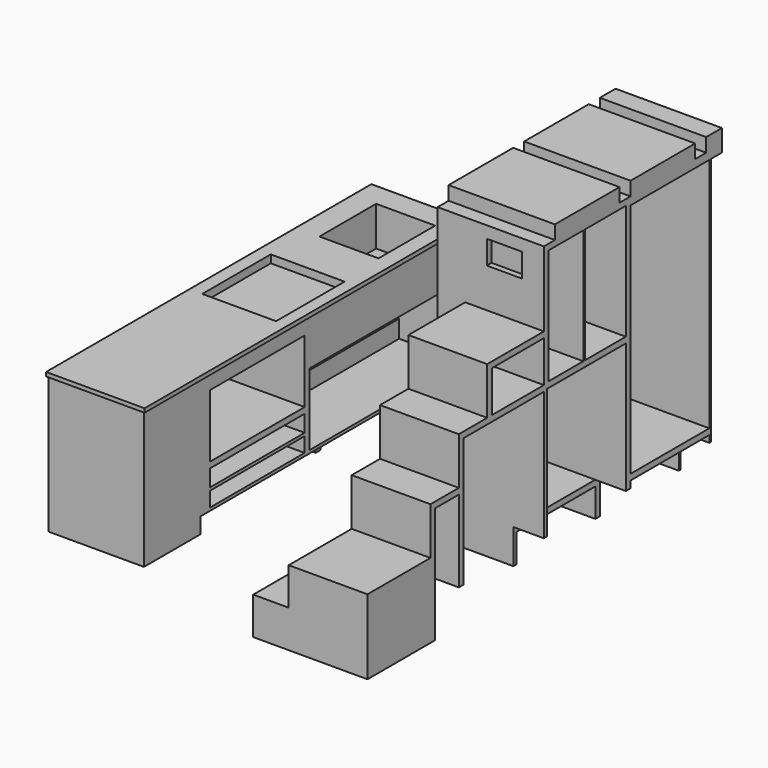
from build123d import *

# Parameters (mm, degrees)
F0_W      = 635
F0_H      = 2146.3
F1_DEPTH  = 914.4
F2_W      = 196.85
F2_H      = 222.25
F3_DEPTH  = 2260.6
F4_W      = 19.05
F4_H      = 2146.3
F5_DEPTH  = 889
F7_W      = 476.25
F7_H      = 552.45
F8_DEPTH  = 50.8
F9_W      = 762
F9_H      = 406.4
F10_DEPTH = 609.6
F11_W     = 381
F11_H     = 457.2
F12_DEPTH = 254
F13_W     = 2146.3
F13_H     = 101.6
F14_DEPTH = 101.6
F15_W     = 762
F15_H     = 222.25
F15_W_2   = 1231.9
F15_H_2   = 463.55
F16_DEPTH = 406.4
F17_W     = 762
F17_H     = 107.95
F17_W_2   = 1231.9
F17_H_2   = 349.25
F18_DEPTH = 203.2
F19_W     = 762
F19_H     = 19.05
F20_DEPTH = 406.4
F21_W     = 1054.1
F21_H     = 73.185064
F22_DEPTH = 304.8
F23_W     = 685.8
F23_H     = 2146.3
F24_DEPTH = 1879.6
F26_DEPTH = 457.2
F27_W     = 635
F27_H     = 25.4
F28_DEPTH = 19.05
F29_W     = 635
F29_H     = 1524
F30_DEPTH = 685.801
F31_W     = 196.85
F31_H     = 222.25
F32_DEPTH = 2622.551
F33_W     = 88.9
F33_H     = 1828.8
F34_DEPTH = 685.801
F36_DEPTH = 685.801
F37_W     = 685.8
F37_H     = 1092.2
F38_DEPTH = 711.2
F39_W     = 508
F39_H     = 304.8
F40_DEPTH = 685.801
F41_W     = 635
F41_H     = 838.2
F42_DEPTH = 685.801
F44_DEPTH = 177.8
F45_W     = 508
F45_H     = 241.3
F46_DEPTH = 228.6
F47_W     = 279.4
F47_H     = 742.95
F47_W_2   = 330.2
F48_DEPTH = 685.801
F49_W     = 228.6
F49_H     = 152.4
F50_DEPTH = 38.1
F51_W     = 190.5
F51_H     = 749.3
F51_W_2   = 647.7
F51_H_2   = 1054.1
F51_W_3   = 419.1
F51_H_3   = 266.7
F52_DEPTH = 508.001
F53_R     = 25.4
F54_DEPTH = 647.7
F55_W     = 635
F55_H     = 266.7
F55_H_2   = 184.15
F56_DEPTH = 685.801
F57_W     = 520.7
F57_H     = 88.9
F57_W_2   = 127
F58_DEPTH = 685.8


with BuildPart() as f1:
    # F0 (on Top) → F1 (new body)
    with BuildSketch(Plane.XY):
        with Locations((317.5, -1073.15)):
            Rectangle(F0_W, F0_H)
    extrude(amount=F1_DEPTH)

    # F2 (on face) → F3 (cut)
    with BuildSketch(Plane.XZ.offset(2146.3)):
        with Locations((98.425, 111.125)):
            Rectangle(F2_W, F2_H)
    extrude(amount=-F3_DEPTH, mode=Mode.SUBTRACT)

    # F4 (on face) → F5 (cut)
    with BuildSketch(Plane(origin=(0, 0, 0), x_dir=(1, 0, 0), z_dir=(0, 0, -1))):
        with Locations((625.475, 1073.15)):
            Rectangle(F4_W, F4_H)
    extrude(amount=-F5_DEPTH, mode=Mode.SUBTRACT)

    # F7 (on face) → F8 (cut)
    with BuildSketch(Plane.XY.offset(914.4)):
        with Locations((320.675, -1190.625)):
            Rectangle(F7_W, F7_H)
    extrude(amount=-F8_DEPTH, mode=Mode.SUBTRACT)

    # F9 (on face) → F10 (cut)
    with BuildSketch(Plane.YZ.offset(635)):
        with Locations((-1689.1, 584.2)):
            Rectangle(F9_W, F9_H)
    extrude(amount=-F10_DEPTH, mode=Mode.SUBTRACT)

    # F11 (on face) → F12 (cut)
    with BuildSketch(Plane.XY.offset(914.4)):
        with Locations((342.9, -381)):
            Rectangle(F11_W, F11_H)
    extrude(amount=-F12_DEPTH, mode=Mode.SUBTRACT)

    # F13 (on face) → F14 (cut)
    with BuildSketch(Plane.YZ.offset(615.95)):
        with Locations((-1073.15, 50.8)):
            Rectangle(F13_W, F13_H)
    extrude(amount=-F14_DEPTH, mode=Mode.SUBTRACT)

    # F15 (on face) → F16 (cut)
    with BuildSketch(Plane.YZ.offset(615.95)):
        with Locations((-1689.1, 231.775)):
            Rectangle(F15_W, F15_H)
        with Locations((-654.05, 352.425)):
            Rectangle(F15_W_2, F15_H_2)
    extrude(amount=-F16_DEPTH, mode=Mode.SUBTRACT)

    # F17 (on face) → F18 (cut)
    with BuildSketch(Plane.YZ.offset(209.55)):
        with Locations((-1689.1, 288.925)):
            Rectangle(F17_W, F17_H)
        with Locations((-654.05, 409.575)):
            Rectangle(F17_W_2, F17_H_2)
    extrude(amount=-F18_DEPTH, mode=Mode.SUBTRACT)

    # F19 (on face) → F20 (join, through all)
    with BuildSketch(Plane.YZ.offset(209.55)):
        with Locations((-1689.1, 225.425)):
            Rectangle(F19_W, F19_H)
    extrude(amount=F20_DEPTH)

    # F21 (on face) → F22 (cut)
    with BuildSketch(Plane.YZ.offset(514.35)):
        with Locations((-1619.25, 36.592532)):
            Rectangle(F21_W, F21_H)
        with Locations((-527.05, 36.592532)):
            Rectangle(F21_W, F21_H)
    extrude(amount=-F22_DEPTH, mode=Mode.SUBTRACT)

    # F25 (on face) → F26 (join)
    with BuildSketch(Plane.XZ.offset(2146.3)):
        Polygon((635, 914.4), (0, 914.4), (0, 0), (615.95, 0), (615.95, 889), (635, 889), align=None)
    extrude(amount=F26_DEPTH)

    # F27 (on face) → F28 (join)
    with BuildSketch(Plane.XZ.offset(2603.5)):
        with Locations((317.5, 901.7)):
            Rectangle(F27_W, F27_H)
    extrude(amount=F28_DEPTH)


with BuildPart() as f24:
    # F23 (on Top) → F24 (new body)
    with BuildSketch(Plane.XY):
        with Locations((1917.7, -1073.15)):
            Rectangle(F23_W, F23_H)
    extrude(amount=F24_DEPTH)

    # F29 (on face) → F30 (cut, through all)
    with BuildSketch(Plane(origin=(1574.8, 0, 0), x_dir=(0, -1, 0), z_dir=(-1, 0, 0))):
        with Locations((419.1, 1066.8)):
            Rectangle(F29_W, F29_H)
    extrude(amount=-F30_DEPTH, mode=Mode.SUBTRACT)

    # F31 (on face) → F32 (cut, through all)
    with BuildSketch(Plane(origin=(0, 0, 0), x_dir=(-1, 0, 0), z_dir=(0, 1, 0))):
        with Locations((-2162.175, 111.125)):
            Rectangle(F31_W, F31_H)
    extrude(amount=-F32_DEPTH, mode=Mode.SUBTRACT)

    # F33 (on face) → F34 (cut, through all)
    with BuildSketch(Plane(origin=(1574.8, 0, 0), x_dir=(0, -1, 0), z_dir=(-1, 0, 0))):
        with Locations((44.45, 914.4)):
            Rectangle(F33_W, F33_H)
    extrude(amount=-F34_DEPTH, mode=Mode.SUBTRACT)

    # F35 (on face) → F36 (cut, through all)
    with BuildSketch(Plane(origin=(1574.8, 0, 0), x_dir=(0, -1, 0), z_dir=(-1, 0, 0))):
        Polygon((1435.1, 1397), (1892.3, 1397), (1892.3, 1092.2), (2146.3, 1092.2), (2146.3, 2006.6), (1435.1, 2006.6), align=None)
    extrude(amount=-F36_DEPTH, mode=Mode.SUBTRACT)

    # F37 (on face) → F38 (join)
    with BuildSketch(Plane.XZ.offset(2146.3)):
        with Locations((1917.7, 546.1)):
            Rectangle(F37_W, F37_H)
    extrude(amount=F38_DEPTH)

    # F39 (on face) → F40 (cut, through all)
    with BuildSketch(Plane(origin=(1574.8, 0, 0), x_dir=(0, -1, 0), z_dir=(-1, 0, 0))):
        Polygon((2857.5, 787.4), (2857.5, 1092.2), (2120.9, 1092.2), (2120.9, 787.4), (2349.5, 787.4), align=None)
        with Locations((2603.5, 635)):
            Rectangle(F39_W, F39_H)
    extrude(amount=-F40_DEPTH, mode=Mode.SUBTRACT)

    # F41 (on face) → F42 (cut, through all)
    with BuildSketch(Plane(origin=(1574.8, 0, 0), x_dir=(0, -1, 0), z_dir=(-1, 0, 0))):
        with Locations((1092.2, 641.35)):
            Rectangle(F41_W, F41_H)
    extrude(amount=-F42_DEPTH, mode=Mode.SUBTRACT)

    # F43 (on face) → F44 (cut)
    with BuildSketch(Plane(origin=(1574.8, 0, 0), x_dir=(0, -1, 0), z_dir=(-1, 0, 0))):
        Polygon((2120.9, 1092.2), (1892.3, 1092.2), (1892.3, 1397), (1435.1, 1397), (1435.1, 0), (2857.5, 0), (2857.5, 482.6), (2349.5, 482.6), (2349.5, 787.4), (2120.9, 787.4), align=None)
    extrude(amount=-F44_DEPTH, mode=Mode.SUBTRACT)

    # F45 (on face) → F46 (join)
    with BuildSketch(Plane(origin=(1752.6, 0, 0), x_dir=(0, -1, 0), z_dir=(-1, 0, 0))):
        with Locations((2603.5, 120.65)):
            Rectangle(F45_W, F45_H)
    extrude(amount=F46_DEPTH)

    # F47 (on face) → F48 (cut, through all)
    with BuildSketch(Plane(origin=(1574.8, 0, 0), x_dir=(0, -1, 0), z_dir=(-1, 0, 0))):
        with Locations((1257.3, 1470.025)):
            Rectangle(F47_W, F47_H)
        with Locations((939.8, 1470.025)):
            Rectangle(F47_W_2, F47_H)
    extrude(amount=-F48_DEPTH, mode=Mode.SUBTRACT)

    # F49 (on face) → F50 (cut, through all)
    with BuildSketch(Plane.XZ.offset(1435.1)):
        with Locations((2006.6, 1727.2)):
            Rectangle(F49_W, F49_H)
    extrude(amount=-F50_DEPTH, mode=Mode.SUBTRACT)

    # F51 (on face) → F52 (cut, through all)
    with BuildSketch(Plane(origin=(1752.6, 0, 0), x_dir=(0, -1, 0), z_dir=(-1, 0, 0))):
        with Locations((2216.15, 374.65)):
            Rectangle(F51_W, F51_H)
        with Locations((1758.95, 527.05)):
            Rectangle(F51_W_2, F51_H_2)
        with Locations((1644.65, 1225.55)):
            Rectangle(F51_W_3, F51_H_3)
    extrude(amount=-F52_DEPTH, mode=Mode.SUBTRACT)

    # F53 (on face) → F54 (join, through all)
    with BuildSketch(Plane(origin=(0, -2082.8, 0), x_dir=(-1, 0, 0), z_dir=(0, 1, 0))):
        with Locations((-2006.6, 977.9)):
            Circle(F53_R)
    extrude(amount=F54_DEPTH)

    # F55 (on face) → F56 (cut, through all)
    with BuildSketch(Plane(origin=(1574.8, 0, 0), x_dir=(0, -1, 0), z_dir=(-1, 0, 0))):
        with Locations((419.1, 133.35)):
            Rectangle(F55_W, F55_H)
        with Locations((1092.2, 92.075)):
            Rectangle(F55_W, F55_H_2)
    extrude(amount=-F56_DEPTH, mode=Mode.SUBTRACT)

    # F57 (on face) → F58 (join, through all)
    with BuildSketch(Plane(origin=(1574.8, 0, 0), x_dir=(0, -1, 0), z_dir=(-1, 0, 0))):
        with Locations((1085.85, 1924.05)):
            Rectangle(F57_W, F57_H)
        with Locations((476.25, 1924.05)):
            Rectangle(F57_W, F57_H)
        with Locations((63.5, 1924.05)):
            Rectangle(F57_W_2, F57_H)
    extrude(amount=-F58_DEPTH)


solid = Compound([f1.part, f24.part])
